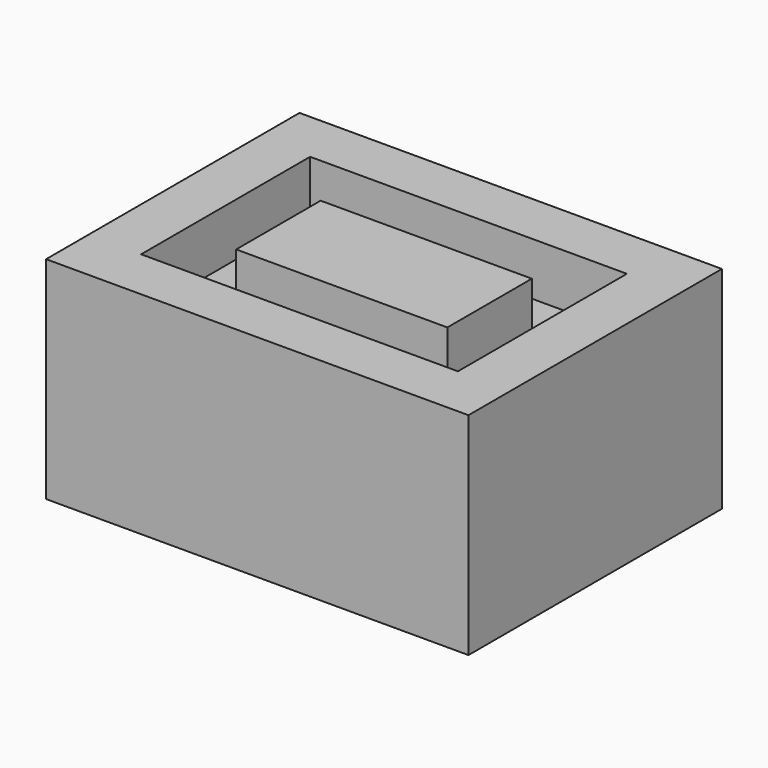
from build123d import *

# Parameters (mm, degrees)
F0_W          = 101.6
F0_H          = 76.2
F0_W_2        = 76.2
F0_H_2        = 50.8
F0_W_3        = 50.8
F0_H_3        = 25.4
F1_DEPTH      = 25.4
F1_DEPTH_BACK = 25.4
F2_DEPTH      = 12.7
F2_DEPTH_BACK = 12.7


with BuildPart() as f1:
    # F0 (on Top) → F1 (new body, two sides)
    with BuildSketch(Plane.XY) as f1_sk:
        with Locations((50.8, 38.1)):
            Rectangle(F0_W, F0_H)
        with Locations((50.8, 38.1)):
            Rectangle(F0_W_2, F0_H_2, mode=Mode.SUBTRACT)
        with Locations((50.8, 38.1)):
            Rectangle(F0_W_3, F0_H_3)
    extrude(amount=F1_DEPTH)
    extrude(f1_sk.sketch, amount=-F1_DEPTH_BACK)

    # F0 (on Top) → F2 (join, two sides)
    with BuildSketch(Plane.XY) as f2_sk:
        with Locations((50.8, 38.1)):
            Rectangle(F0_W_2, F0_H_2)
        with Locations((50.8, 38.1)):
            Rectangle(F0_W_3, F0_H_3, mode=Mode.SUBTRACT)
    extrude(amount=F2_DEPTH)
    extrude(f2_sk.sketch, amount=-F2_DEPTH_BACK)


solid = f1.part
